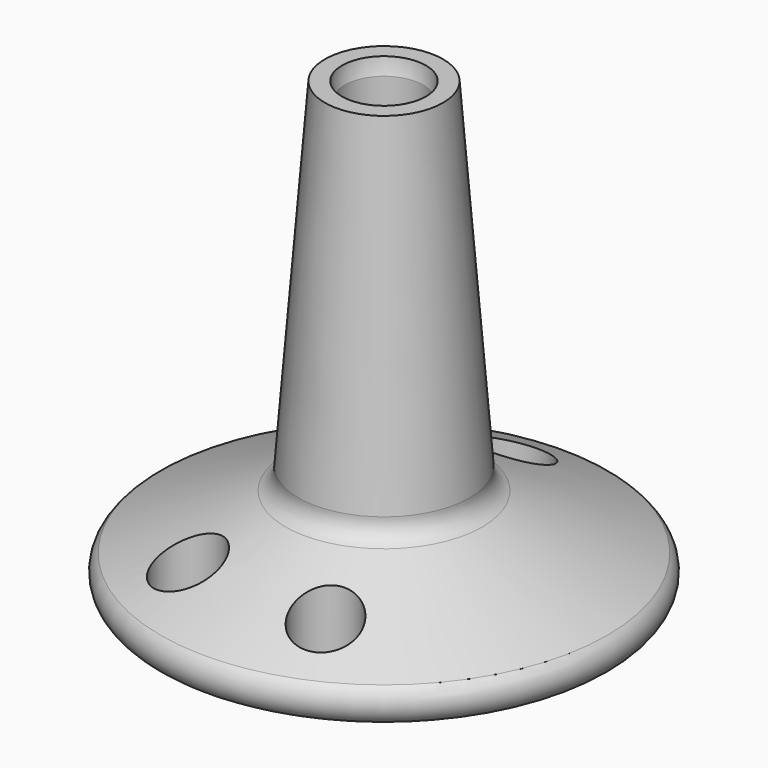
from build123d import *

# Parameters (mm, degrees)
F2_R     = 5.777347
F3_DEPTH = 87.884
F4_R     = 4.634266
F4_R_2   = 4.772292
F4_R_3   = 6.047266
F5_DEPTH = 25.4


with BuildPart() as f1:
    # F0 (on Front) → F1 (revolve)
    with BuildSketch(Plane.XZ):
        with BuildLine():
            Line((0, 61.108096), (0, 0))
            Line((0, 0), (31.088113, 0))
            ThreePointArc((31.088113, 0), (34.053969, 2.04172), (33.205369, 5.540978))
            Line((33.205369, 5.540978), (14.640065, 13.701916))
            ThreePointArc((14.640065, 13.701916), (13.181096, 14.998702), (12.756515, 16.903952))
            Line((12.756515, 16.903952), (8.78591, 67.355268))
            Line((8.78591, 67.355268), (6.247173, 67.355268))
            ThreePointArc((6.247173, 67.355268), (4.417418, 62.93785), (0, 61.108096))
        make_face()
    revolve(axis=Axis((0, 0, 30.554048), (0, 0, 1)))

    # F2 (on face) → F3 (cut)
    with BuildSketch(Plane(origin=(0, 0, 0), x_dir=(1, 0, 0), z_dir=(0, 0, -1))):
        Circle(F2_R)
    extrude(amount=-F3_DEPTH, mode=Mode.SUBTRACT)

    # F4 (on face) → F5 (cut)
    with BuildSketch(Plane(origin=(0, 0, 0), x_dir=(1, 0, 0), z_dir=(0, 0, -1))):
        with Locations((9.536076, 22.793546)):
            Circle(F4_R)
        with Locations((-11.861948, 21.630611)):
            Circle(F4_R_2)
        with Locations((0, -22.560958)):
            Circle(F4_R_3)
    extrude(amount=-F5_DEPTH, mode=Mode.SUBTRACT)


solid = f1.part
